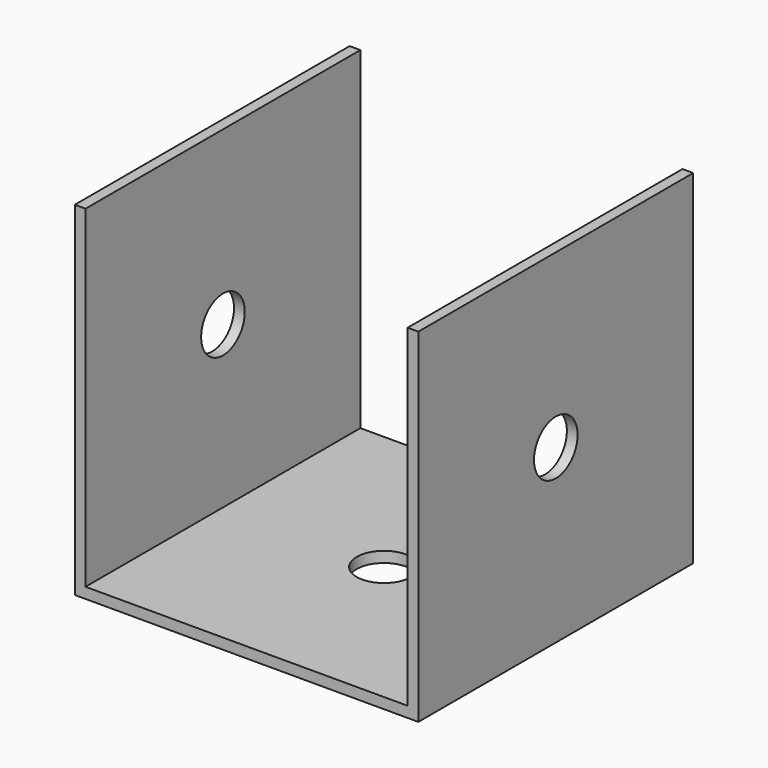
from build123d import *

# Parameters (mm, degrees)
F1_DEPTH = 32
F2_R     = 2.54
F3_DEPTH = 76.2
F4_R     = 2.54
F5_DEPTH = 25.4


with BuildPart() as f1:
    # F0 (on Front) → F1 (new body)
    with BuildSketch(Plane.XZ):
        Polygon((-18.817659, 16.140222), (-19.817659, 16.140222), (-19.817659, -15.859778), (12.182341, -15.859778), (12.182341, 16.140222), (11.182341, 16.140222), (11.182341, -14.859778), (-18.817659, -14.859778), align=None)
    extrude(amount=F1_DEPTH)

    # F2 (on face) → F3 (cut)
    with BuildSketch(Plane(origin=(-19.817659, 0, 0), x_dir=(0, -1, 0), z_dir=(-1, 0, 0))):
        with Locations((16, 0.140222)):
            Circle(F2_R)
    extrude(amount=-F3_DEPTH, mode=Mode.SUBTRACT)

    # F4 (on face) → F5 (cut)
    with BuildSketch(Plane(origin=(0, 0, -15.859778), x_dir=(1, 0, 0), z_dir=(0, 0, -1))):
        with Locations((-3.817659, 16)):
            Circle(F4_R)
    extrude(amount=-F5_DEPTH, mode=Mode.SUBTRACT)


solid = f1.part
